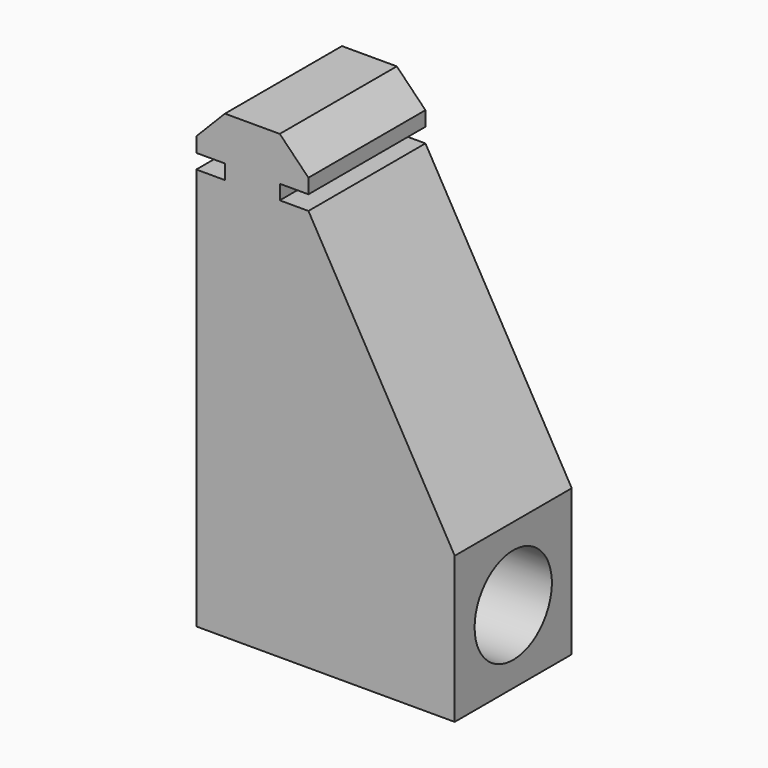
from build123d import *

# Parameters (mm, degrees)
F1_DEPTH = 20
F2_W     = 20
F2_H     = 20
F3_DEPTH = 20
F5_D     = 13.2
F7_DEPTH = 20


with BuildPart() as f1:
    # F0 (on Front) → F1 (new body)
    with BuildSketch(Plane.XZ):
        Polygon((-4.964183461, 2), (-4.964183461, 0), (2.535816539, 0), (2.535816539, 2), (6.453912527, 2), (6.453912527, 4), (2.535816539, 8), (-4.964183461, 8), (-8.8822794489, 4), (-8.8822794489, 2), align=None)
        Polygon((2.535816539, 0), (-4.964183461, 0), (-8.8822794489, 0), (-8.8822794489, -55), (6.453912527, -55), (6.453912527, 0), align=None)
    extrude(amount=F1_DEPTH)

    # F2 (on face) → F3 (join)
    with BuildSketch(Plane.YZ.offset(6.453912527)):
        with Locations((-10, -45)):
            Rectangle(F2_W, F2_H)
    extrude(amount=F3_DEPTH)

    # F5 (through all)
    with Locations(Plane.YZ.offset(26.453912527)):
        with Locations((-10, -45)):
            Hole(F5_D / 2)

    # F6 (on face) → F7 (join)
    with BuildSketch(Plane.XZ.offset(20)):
        Polygon((6.453912527, -35), (26.453912527, -35), (6.453912527, 0), align=None)
    extrude(amount=-F7_DEPTH)


solid = f1.part
